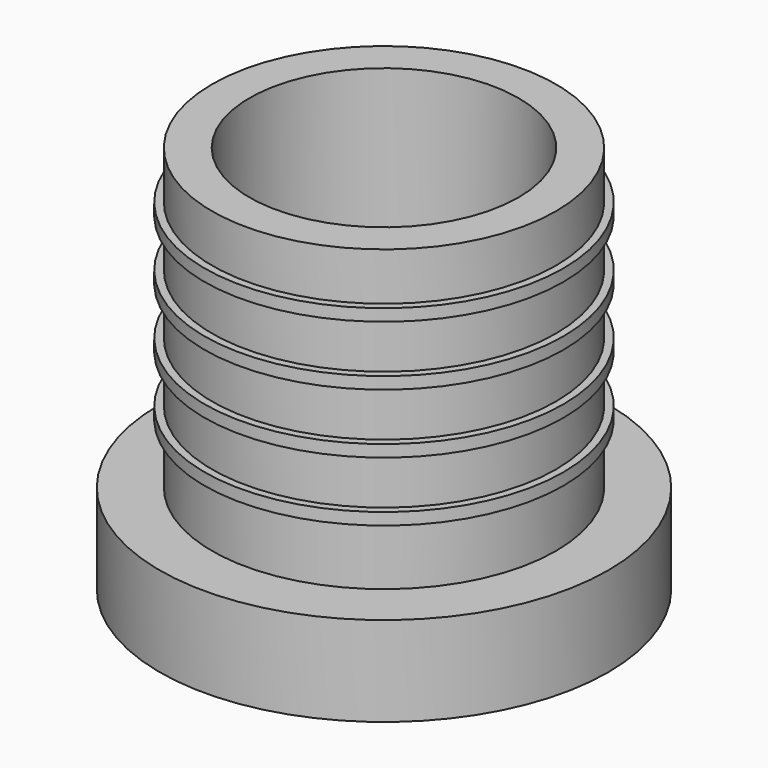
from build123d import *

# Parameters (mm, degrees)
F0_R      = 7.5
F1_DEPTH  = 3
F2_R      = 5.75
F2_R_2    = 4.5
F3_DEPTH  = 10
F5_R      = 6
F5_R_2    = 4.5
F6_DEPTH  = 0.4
F8_R      = 6
F8_R_2    = 4.5
F9_DEPTH  = 0.4
F11_R     = 6
F11_R_2   = 4.5
F12_DEPTH = 0.4
F14_R     = 6
F14_R_2   = 4.5
F15_DEPTH = 0.4


with BuildPart() as f1:
    # F0 (on Top) → F1 (new body)
    with BuildSketch(Plane.XY):
        Circle(F0_R)
    extrude(amount=F1_DEPTH)

    # F2 (on face) → F3 (join)
    with BuildSketch(Plane.XY.offset(3)):
        Circle(F2_R)
        Circle(F2_R_2, mode=Mode.SUBTRACT)
    extrude(amount=F3_DEPTH)

    # F5 (on offset) → F6 (join)
    with BuildSketch(Plane.XY.offset(5)):
        Circle(F5_R)
        Circle(F5_R_2, mode=Mode.SUBTRACT)
    extrude(amount=F6_DEPTH)

    # F8 (on offset) → F9 (join)
    with BuildSketch(Plane.XY.offset(7)):
        Circle(F8_R)
        Circle(F8_R_2, mode=Mode.SUBTRACT)
    extrude(amount=F9_DEPTH)

    # F11 (on offset) → F12 (join)
    with BuildSketch(Plane.XY.offset(9)):
        Circle(F11_R)
        Circle(F11_R_2, mode=Mode.SUBTRACT)
    extrude(amount=F12_DEPTH)

    # F14 (on offset) → F15 (join)
    with BuildSketch(Plane.XY.offset(11)):
        Circle(F14_R)
        Circle(F14_R_2, mode=Mode.SUBTRACT)
    extrude(amount=F15_DEPTH)


solid = f1.part
